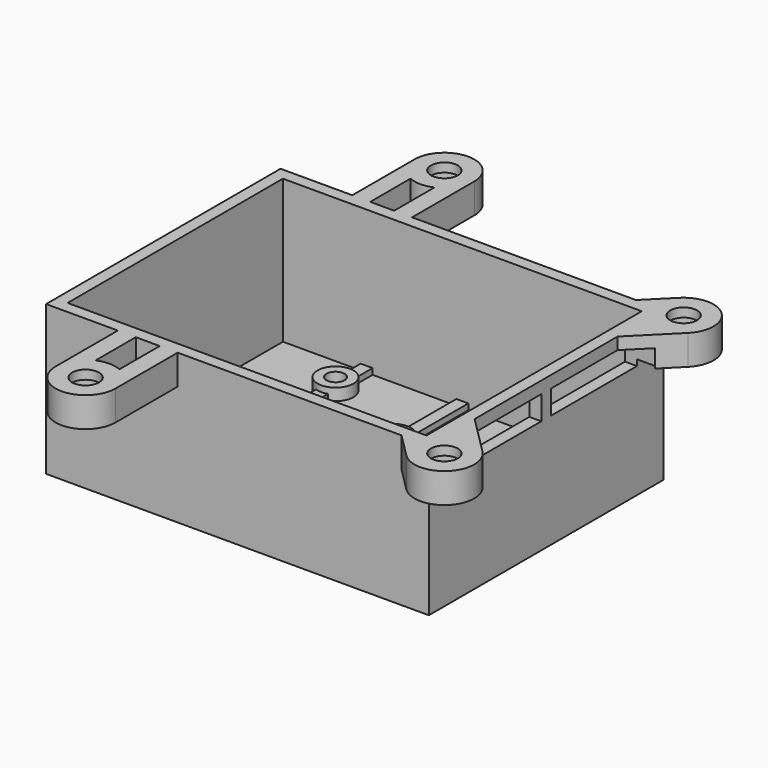
from build123d import *

# Parameters (mm, degrees)
SKETCH315_W     = 60
SKETCH315_H     = 45
PAD148_DEPTH    = 5
SKETCH318_W     = 64
SKETCH318_H     = 49
SKETCH318_W_2   = 60
SKETCH318_H_2   = 45
PAD149_DEPTH    = 20
SKETCH319_W     = 62
SKETCH319_H     = 47
PAD150_DEPTH    = 1
PAD151_DEPTH    = 2
SKETCH316_W     = 18
SKETCH316_H     = 4
POCKET130_DEPTH = 5.5
SKETCH317_R     = 2.25
POCKET131_DEPTH = 5
SKETCH323_R     = 3.75
POCKET132_DEPTH = 3.5
SKETCH324_W     = 3
SKETCH324_H     = 16
POCKET133_DEPTH = 5
SKETCH325_W     = 5
SKETCH325_H     = 18
SKETCH325_W_2   = 3
SKETCH325_H_2   = 16
PAD152_DEPTH    = 2
SKETCH321_R     = 3
PAD153_DEPTH    = 3
SKETCH322_R     = 1.5
POCKET134_DEPTH = 5
SKETCH326_R     = 3
PAD154_DEPTH    = 3
SKETCH327_R     = 1
POCKET135_DEPTH = 5
POCKET136_DEPTH = 5
PAD155_DEPTH    = 2
SKETCH330_R     = 2.5
POCKET137_DEPTH = 5
SKETCH331_R     = 5.5
SKETCH331_R_2   = 2.5
PAD156_DEPTH    = 2


with BuildPart() as part:
    # Sketch315 → Pad148 (new body)
    with BuildSketch(Plane.XY):
        with BuildLine():
            Line((-32, 24.5), (-20, 24.5))
            Line((-20, 24.5), (-20, 37.5))
            ThreePointArc((-10, 37.5), (-15, 42.5), (-20, 37.5))
            Line((-10, 24.5), (-10, 37.5))
            Line((-10, 24.5), (27.428932, 24.5))
            Line((27.428932, 24.5), (31.464466, 28.535534))
            ThreePointArc((38.535534, 21.464466), (38.535534, 28.535534), (31.464466, 28.535534))
            Line((32, 14.928932), (38.535534, 21.464466))
            Line((32, 14.928932), (32, -14.928932))
            Line((32, -14.928932), (38.535534, -21.464466))
            ThreePointArc((31.464466, -28.535534), (38.535534, -28.535534), (38.535534, -21.464466))
            Line((27.428932, -24.5), (31.464466, -28.535534))
            Line((27.428932, -24.5), (-10, -24.5))
            Line((-10, -24.5), (-10, -37.5))
            ThreePointArc((-20, -37.5), (-15, -42.5), (-10, -37.5))
            Line((-20, -24.5), (-20, -37.5))
            Line((-20, -24.5), (-32, -24.5))
            Line((-32, -24.5), (-32, 24.5))
        make_face()
        Rectangle(SKETCH315_W, SKETCH315_H, mode=Mode.SUBTRACT)
    extrude(amount=PAD148_DEPTH)

    # Sketch318 → Pad149 (join)
    with BuildSketch(Plane.XY):
        Rectangle(SKETCH318_W, SKETCH318_H)
        Rectangle(SKETCH318_W_2, SKETCH318_H_2, mode=Mode.SUBTRACT)
    extrude(amount=-PAD149_DEPTH)

    # Sketch319 (on Face13 of Pad149) → Pad150 (join)
    with BuildSketch(Plane(origin=(0, 0, -20), x_dir=(1, 0, 0), z_dir=(0, 0, -1))):
        Rectangle(SKETCH319_W, SKETCH319_H)
    extrude(amount=-PAD150_DEPTH)

    # Sketch320 (on Face38 of Pad150) → Pad151 (join)
    with BuildSketch(Plane(origin=(0, 0, -20), x_dir=(1, 0, 0), z_dir=(0, 0, -1))):
        Polygon((-31, 1), (-17, 1), (-17, 23.5), (-15, 23.5), (-15, 1), (-1, 1), (-1, 23.5), (1, 23.5), (1, 1), (15, 1), (15, 23.5), (17, 23.5), (17, 1), (31, 1), (31, -1), (17, -1), (17, -23.5), (15, -23.5), (15, -1), (1, -1), (1, -23.5), (-1, -23.5), (-1, -1), (-15, -1), (-15, -23.5), (-17, -23.5), (-17, -1), (-31, -1), align=None)
    extrude(amount=-PAD151_DEPTH)

    # Sketch316 → Pocket130 (cut, symmetric)
    with BuildSketch(Plane(origin=(30, 0, 0), x_dir=(0, -1, 0), z_dir=(-1, 0, 0))):
        with Locations((-10, 1)):
            Rectangle(SKETCH316_W, SKETCH316_H)
        with Locations((10, 1)):
            Rectangle(SKETCH316_W, SKETCH316_H)
    extrude(amount=POCKET130_DEPTH, both=True, mode=Mode.SUBTRACT)

    # Sketch317 → Pocket131 (cut)
    with BuildSketch(Plane.XY):
        with Locations((35, -25)):
            Circle(SKETCH317_R)
        with Locations((35, 25)):
            Circle(SKETCH317_R)
        with Locations((-15, 37.5)):
            Circle(SKETCH317_R)
        with Locations((-15, -37.5)):
            Circle(SKETCH317_R)
        with BuildLine():
            Line((-17, 24.5), (-13, 24.5))
            Line((-13, 24.5), (-13, 32.917424))
            ThreePointArc((-17, 32.917424), (-15, 32.5), (-13, 32.917424))
            Line((-17, 24.5), (-17, 32.917424))
        make_face()
        with BuildLine():
            Line((-17, -24.5), (-13, -24.5))
            Line((-13, -24.5), (-13, -32.917424))
            ThreePointArc((-13, -32.917424), (-15, -32.5), (-17, -32.917424))
            Line((-17, -24.5), (-17, -32.917424))
        make_face()
    extrude(amount=POCKET131_DEPTH, mode=Mode.SUBTRACT)

    # Sketch323 → Pocket132 (cut)
    with BuildSketch(Plane.XY):
        with Locations((35, -25)):
            Circle(SKETCH323_R)
        with Locations((35, 25)):
            Circle(SKETCH323_R)
        with Locations((-15, 37.5)):
            Circle(SKETCH323_R)
        with Locations((-15, -37.5)):
            Circle(SKETCH323_R)
    extrude(amount=POCKET132_DEPTH, mode=Mode.SUBTRACT)

    # Sketch324 (on Face87 of Pocket132) → Pocket133 (cut)
    with BuildSketch(Plane(origin=(0, 0, -20), x_dir=(1, 0, 0), z_dir=(0, 0, -1))):
        with Locations((-27.5, 0)):
            Rectangle(SKETCH324_W, SKETCH324_H)
    extrude(amount=-POCKET133_DEPTH, mode=Mode.SUBTRACT)

    # Sketch325 (on Face87 of Pocket133) → Pad152 (join)
    with BuildSketch(Plane(origin=(0, 0, -20), x_dir=(1, 0, 0), z_dir=(0, 0, -1))):
        with Locations((-27.5, 0)):
            Rectangle(SKETCH325_W, SKETCH325_H)
        with Locations((-27.5, 0)):
            Rectangle(SKETCH325_W_2, SKETCH325_H_2, mode=Mode.SUBTRACT)
    extrude(amount=-PAD152_DEPTH)

    # Sketch321 (on Face13 of Pad151) → Pad153 (join)
    with BuildSketch(Plane(origin=(0, 0, -20), x_dir=(1, 0, 0), z_dir=(0, 0, -1))):
        with Locations((-16, 16)):
            Circle(SKETCH321_R)
        with Locations((-16, -16)):
            Circle(SKETCH321_R)
    extrude(amount=-PAD153_DEPTH)

    # Sketch322 → Pocket134 (cut)
    with BuildSketch(Plane(origin=(0, 0, -20), x_dir=(1, 0, 0), z_dir=(0, 0, -1))):
        with Locations((-16, 16)):
            Circle(SKETCH322_R)
        with Locations((-16, -16)):
            Circle(SKETCH322_R)
    extrude(amount=-POCKET134_DEPTH, mode=Mode.SUBTRACT)

    # Sketch326 (on Face87 of Pad152) → Pad154 (join)
    with BuildSketch(Plane(origin=(0, 0, -20), x_dir=(1, 0, 0), z_dir=(0, 0, -1))):
        with Locations((0, 8)):
            Circle(SKETCH326_R)
        with Locations((0, -8)):
            Circle(SKETCH326_R)
    extrude(amount=-PAD154_DEPTH)

    # Sketch327 → Pocket135 (cut)
    with BuildSketch(Plane(origin=(0, 0, -20), x_dir=(1, 0, 0), z_dir=(0, 0, -1))):
        with Locations((0, 8)):
            Circle(SKETCH327_R)
        with Locations((0, -8)):
            Circle(SKETCH327_R)
    extrude(amount=-POCKET135_DEPTH, mode=Mode.SUBTRACT)

    # Sketch328 (on Face15 of Pocket135) → Pocket136 (cut)
    with BuildSketch(Plane(origin=(0, 0, -20), x_dir=(1, 0, 0), z_dir=(0, 0, -1))):
        with BuildLine():
            ThreePointArc((26, 19), (24, 21), (22, 19))
            Line((22, -19), (22, 19))
            ThreePointArc((22, -19), (24, -21), (26, -19))
            Line((26, -19), (26, 19))
        make_face()
    extrude(amount=-POCKET136_DEPTH, mode=Mode.SUBTRACT)

    # Sketch329 (on Face15 of Pocket135) → Pad155 (join)
    with BuildSketch(Plane(origin=(0, 0, -20), x_dir=(1, 0, 0), z_dir=(0, 0, -1))):
        with BuildLine():
            ThreePointArc((28, 19), (24, 23), (20, 19))
            Line((20, 19), (20, -19))
            ThreePointArc((20, -19), (24, -23), (28, -19))
            Line((28, -19), (28, 19))
        make_face()
        with BuildLine():
            ThreePointArc((26, 19), (24, 21), (22, 19))
            Line((22, -19), (22, 19))
            ThreePointArc((22, -19), (24, -21), (26, -19))
            Line((26, -19), (26, 19))
        make_face(mode=Mode.SUBTRACT)
    extrude(amount=-PAD155_DEPTH)

    # Sketch330 (on Face15 of Pad155) → Pocket137 (cut)
    with BuildSketch(Plane(origin=(0, 0, -20), x_dir=(1, 0, 0), z_dir=(0, 0, -1))):
        with Locations((11, 16.5)):
            Circle(SKETCH330_R)
    extrude(amount=-POCKET137_DEPTH, mode=Mode.SUBTRACT)

    # Sketch331 (on Face15 of Pocket137) → Pad156 (join)
    with BuildSketch(Plane(origin=(0, 0, -20), x_dir=(1, 0, 0), z_dir=(0, 0, -1))):
        with Locations((11, 16.5)):
            Circle(SKETCH331_R)
        with Locations((11, 16.5)):
            Circle(SKETCH331_R_2, mode=Mode.SUBTRACT)
    extrude(amount=-PAD156_DEPTH)


with BuildPart() as part_1:
    # Body033 placement: moved
    add(part.part.moved(Location((-216, 0, 0))))


solid = part_1.part
